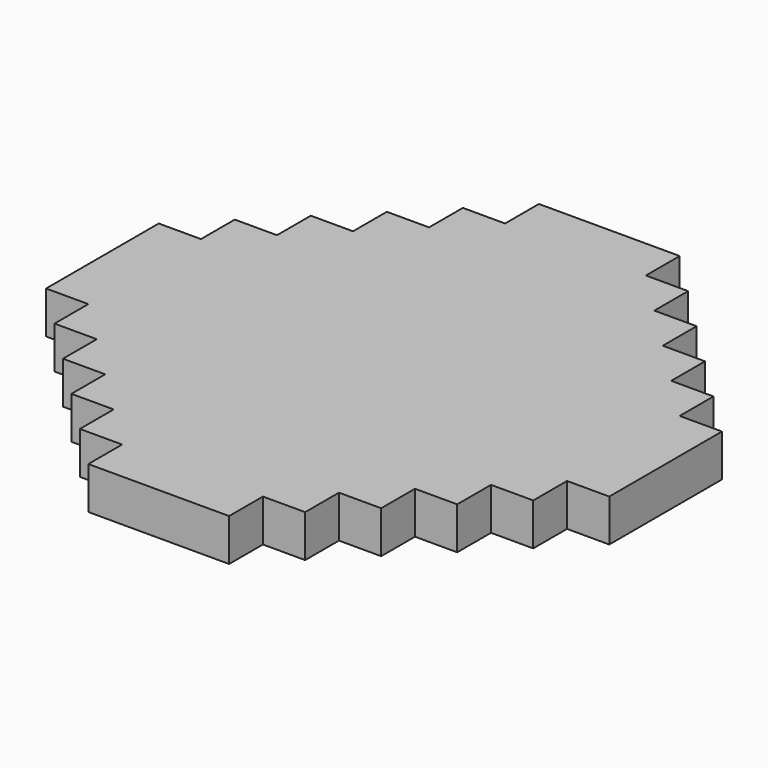
from build123d import *

# Parameters (mm, degrees)
F1_DEPTH = 6


with BuildPart() as f1:
    # F0 (on Top) → F1 (new body)
    with BuildSketch(Plane.XY):
        Polygon((10, 40), (-10, 40), (-10, 34), (-16, 34), (-16, 28), (-22, 28), (-22, 22), (-28, 22), (-28, 16), (-34, 16), (-34, 10), (-40, 10), (-40, -10), (-34, -10), (-34, -16), (-28, -16), (-28, -22), (-22, -22), (-22, -28), (-16, -28), (-16, -34), (-10, -34), (-10, -40), (10, -40), (10, -34), (16, -34), (16, -28), (22, -28), (22, -22), (28, -22), (28, -16), (34, -16), (34, -10), (40, -10), (40, 10), (34, 10), (34, 16), (28, 16), (28, 22), (22, 22), (22, 28), (16, 28), (16, 34), (10, 34), align=None)
    extrude(amount=F1_DEPTH)


solid = f1.part
